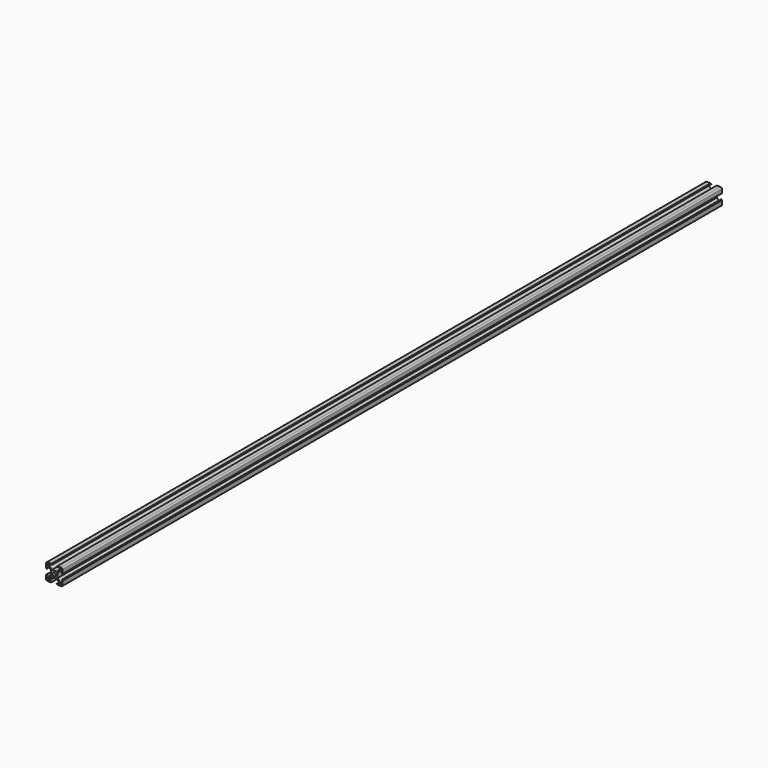
from build123d import *

# Parameters (mm, degrees)
F1_DEPTH = 1000
F2_R     = 1.5


with BuildPart() as f1:
    # F0 (on Front) → F1 (new body)
    with BuildSketch(Plane.XZ):
        Polygon((-7.46, 9.1), (-6.39934, 9.1), (-2.84, 9.1), (-3.74, 10), (-10, 10), (-10, 3.74), (-9.1, 2.84), (-9.1, 6.39934), (-9.1, 7.444134), (-9.124691, 7.46934), (-9.1, 9.1), align=None)
        Polygon((-7.399089, 8.459749), (-6.39934, 7.46), (-6.39934, 9.1), (-7.46, 9.1), (-7.110116, 8.742815), align=None)
        Polygon((-7.46, 6.39934), (-8.470702, 7.410042), (-8.774807, 7.112154), (-9.1, 7.444134), (-9.1, 6.39934), align=None)
        with BuildLine():
            ThreePointArc((-1.917323, 0.856663), (-1.729884, 1.190588), (-1.484924, 1.484924))
            Line((-1.484924, 1.484924), (-7.934896, 7.934896))
            Line((-7.934896, 7.934896), (-8.470702, 7.410042))
            Line((-8.470702, 7.410042), (-7.46, 6.39934))
            Line((-7.46, 6.39934), (-3.90066, 2.84))
            Line((-3.90066, 2.84), (-1.917323, 0.856663))
        make_face()
        with BuildLine():
            ThreePointArc((-1.484924, 1.484924), (-1.190588, 1.729884), (-0.856663, 1.917323))
            Line((-0.856663, 1.917323), (-2.84, 3.90066))
            Line((-2.84, 3.90066), (-6.39934, 7.46))
            Line((-6.39934, 7.46), (-7.399089, 8.459749))
            Line((-7.399089, 8.459749), (-7.934896, 7.934896))
            Line((-7.934896, 7.934896), (-1.484924, 1.484924))
        make_face()
        with BuildLine():
            ThreePointArc((0.856663, 1.917323), (1.484924, 1.484924), (1.917323, 0.856663))
            Line((1.917323, 0.856663), (3.90066, 2.84))
            Line((3.90066, 2.84), (7.46, 6.39934))
            Line((7.46, 6.39934), (9.1, 6.39934))
            Line((9.1, 6.39934), (9.1, 2.84))
            Line((9.1, 2.84), (10, 3.74))
            Line((10, 3.74), (10, 10))
            Line((10, 10), (3.74, 10))
            Line((3.74, 10), (2.84, 9.1))
            Line((2.84, 9.1), (6.39934, 9.1))
            Line((6.39934, 9.1), (6.39934, 7.46))
            Line((6.39934, 7.46), (2.84, 3.90066))
            Line((2.84, 3.90066), (0.856663, 1.917323))
        make_face()
        Polygon((7.112154, 8.774807), (7.46934, 9.124691), (9.1, 9.1), (9.1, 7.46), (8.742815, 7.110116), align=None, mode=Mode.SUBTRACT)
        with BuildLine():
            ThreePointArc((1.917323, 0.856663), (2.053823, 0.437962), (2.1, 0))
            ThreePointArc((2.1, 0), (2.053823, -0.437962), (1.917323, -0.856663))
            Line((1.917323, -0.856663), (3.90066, -2.84))
            Line((3.90066, -2.84), (3.90066, 2.84))
            Line((3.90066, 2.84), (1.917323, 0.856663))
        make_face()
        with BuildLine():
            ThreePointArc((-0.856663, 1.917323), (0, 2.1), (0.856663, 1.917323))
            Line((0.856663, 1.917323), (2.84, 3.90066))
            Line((2.84, 3.90066), (-2.84, 3.90066))
            Line((-2.84, 3.90066), (-0.856663, 1.917323))
        make_face()
        with BuildLine():
            ThreePointArc((-1.917323, -0.856663), (-2.1, 0), (-1.917323, 0.856663))
            Line((-1.917323, 0.856663), (-3.90066, 2.84))
            Line((-3.90066, 2.84), (-3.90066, -2.84))
            Line((-3.90066, -2.84), (-1.917323, -0.856663))
        make_face()
        with BuildLine():
            Line((2.84, -3.90066), (0.856663, -1.917323))
            ThreePointArc((0.856663, -1.917323), (0, -2.1), (-0.856663, -1.917323))
            Line((-0.856663, -1.917323), (-2.84, -3.90066))
            Line((-2.84, -3.90066), (2.84, -3.90066))
        make_face()
        with BuildLine():
            Line((-2.84, -3.90066), (-0.856663, -1.917323))
            ThreePointArc((-0.856663, -1.917323), (-1.190588, -1.729884), (-1.484924, -1.484924))
            Line((-1.484924, -1.484924), (-7.934896, -7.934896))
            Line((-7.934896, -7.934896), (-7.410042, -8.470702))
            Line((-7.410042, -8.470702), (-6.39934, -7.46))
            Line((-6.39934, -7.46), (-2.84, -3.90066))
        make_face()
        with BuildLine():
            Line((-7.934896, -7.934896), (-1.484924, -1.484924))
            ThreePointArc((-1.484924, -1.484924), (-1.729884, -1.190588), (-1.917323, -0.856663))
            Line((-1.917323, -0.856663), (-3.90066, -2.84))
            Line((-3.90066, -2.84), (-7.46, -6.39934))
            Line((-7.46, -6.39934), (-8.459749, -7.399089))
            Line((-8.459749, -7.399089), (-7.934896, -7.934896))
        make_face()
        with BuildLine():
            Line((7.934896, -7.934896), (1.484924, -1.484924))
            ThreePointArc((1.484924, -1.484924), (1.190588, -1.729884), (0.856663, -1.917323))
            Line((0.856663, -1.917323), (2.84, -3.90066))
            Line((2.84, -3.90066), (6.39934, -7.46))
            Line((6.39934, -7.46), (7.399089, -8.459749))
            Line((7.399089, -8.459749), (7.934896, -7.934896))
        make_face()
        with BuildLine():
            Line((3.90066, -2.84), (1.917323, -0.856663))
            ThreePointArc((1.917323, -0.856663), (1.729884, -1.190588), (1.484924, -1.484924))
            Line((1.484924, -1.484924), (7.934896, -7.934896))
            Line((7.934896, -7.934896), (8.470702, -7.410042))
            Line((8.470702, -7.410042), (7.46, -6.39934))
            Line((7.46, -6.39934), (3.90066, -2.84))
        make_face()
        Polygon((9.1, -2.84), (9.1, -6.39934), (9.1, -7.444134), (9.124691, -7.46934), (9.1, -9.1), (7.46, -9.1), (6.39934, -9.1), (2.84, -9.1), (3.74, -10), (10, -10), (10, -3.74), align=None)
        Polygon((9.1, -6.39934), (7.46, -6.39934), (8.470702, -7.410042), (8.774807, -7.112154), (9.1, -7.444134), align=None)
        Polygon((7.110116, -8.742815), (7.399089, -8.459749), (6.39934, -7.46), (6.39934, -9.1), (7.46, -9.1), align=None)
        Polygon((-2.84, -9.1), (-6.39934, -9.1), (-7.444134, -9.1), (-7.46934, -9.124691), (-9.1, -9.1), (-9.1, -7.46), (-9.1, -6.39934), (-9.1, -2.84), (-10, -3.74), (-10, -10), (-3.74, -10), align=None)
        Polygon((-6.39934, -9.1), (-6.39934, -7.46), (-7.410042, -8.470702), (-7.112154, -8.774807), (-7.444134, -9.1), align=None)
        Polygon((-8.742815, -7.110116), (-8.459749, -7.399089), (-7.46, -6.39934), (-9.1, -6.39934), (-9.1, -7.46), align=None)
    extrude(amount=F1_DEPTH)

    # F2
    f2_edges = [f1.edges().sort_by_distance(p)[0] for p in [
        (10, -500, 10),
        (-10, -500, 10),
        (-10, -500, -10),
        (10, -500, -10),
    ]]
    fillet(f2_edges, radius=F2_R)


solid = f1.part
